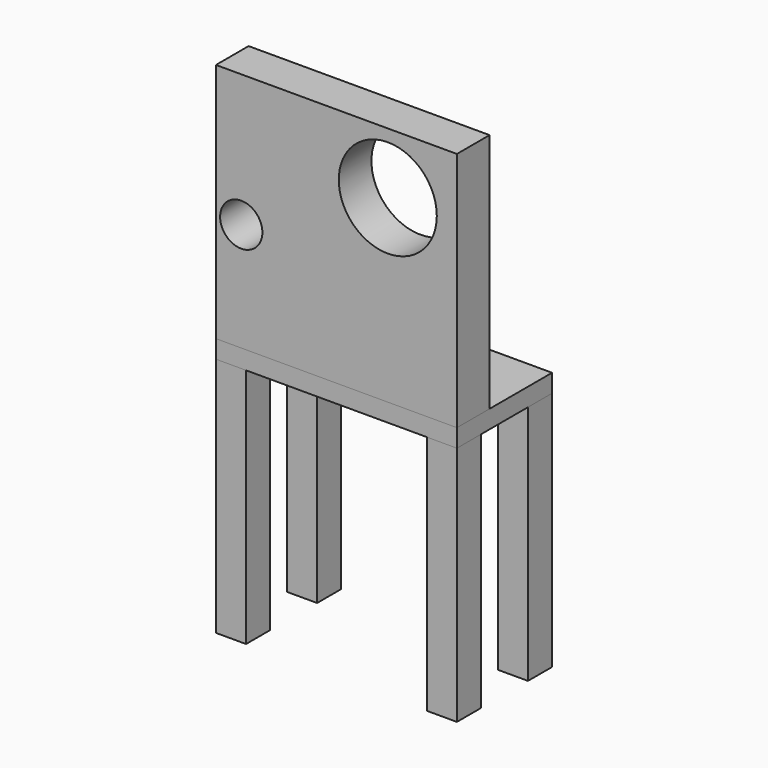
from build123d import *

# Parameters (mm, degrees)
F0_W      = 50.8
F0_H      = 50.8
F1_DEPTH  = 406.4
F2_W      = 203.2
F2_H      = 100.3052477596
F7_DEPTH  = 30.48
F8_W      = 406.4
F8_H      = 68.8679218292
F9_DEPTH  = 406.4
F10_R     = 35.6509847578
F11_DEPTH = 193.04
F10_R_2   = 82.67461481


with BuildPart() as f1:
    # F0 (on Top) → F1 (new body)
    with BuildSketch(Plane.XY):
        with Locations((25.4, 25.4)):
            Rectangle(F0_W, F0_H)
    extrude(amount=F1_DEPTH)


with BuildPart() as f5_1:
    # F5: instance of F1
    add(f1.part.mirror(Plane.YZ.offset(203.2)))


with BuildPart() as f6_1:
    # F6: instance of F5_1
    add(f5_1.part.mirror(Plane.XZ.offset(-100.3052477596)))


with BuildPart() as f6_2:
    # F6: instance of F1
    add(f1.part.mirror(Plane.XZ.offset(-100.3052477596)))


with BuildPart() as f7:
    # F2 (on face) → F7 (new body)
    with BuildSketch(Plane.XY.offset(406.4)):
        with Locations((101.6, 50.1526238798)):
            Rectangle(F2_W, F2_H)
        with Locations((304.8, 50.1526238798)):
            Rectangle(F2_W, F2_H)
        with Locations((101.6, 150.4578716394)):
            Rectangle(F2_W, F2_H)
        with Locations((304.8, 150.4578716394)):
            Rectangle(F2_W, F2_H)
    extrude(amount=F7_DEPTH)


with BuildPart() as f9:
    # F8 (on face) → F9 (new body)
    with BuildSketch(Plane.XY.offset(436.88)):
        with Locations((203.2, 34.4339609146)):
            Rectangle(F8_W, F8_H)
    extrude(amount=F9_DEPTH)


with BuildPart() as f11:
    # F10 (on face) → F11 (new body)
    with BuildSketch(Plane.XZ):
        with Locations((42.6759459078, 620.0470924377)):
            Circle(F10_R)
    extrude(amount=-F11_DEPTH)


with BuildPart() as f11b:
    # F10 (on face) → F11, piece 2 (new body)
    with BuildSketch(Plane.XZ):
        with Locations((289.8136973381, 740.1514053345)):
            Circle(F10_R_2)
    extrude(amount=-F11_DEPTH)


with BuildPart() as f9_1:
    add(f9.part)

    # F12: cut F11b, F11
    add(f11b.part, mode=Mode.SUBTRACT)
    add(f11.part, mode=Mode.SUBTRACT)


solid = Compound([f1.part, f5_1.part, f6_1.part, f6_2.part, f7.part, f9_1.part])
